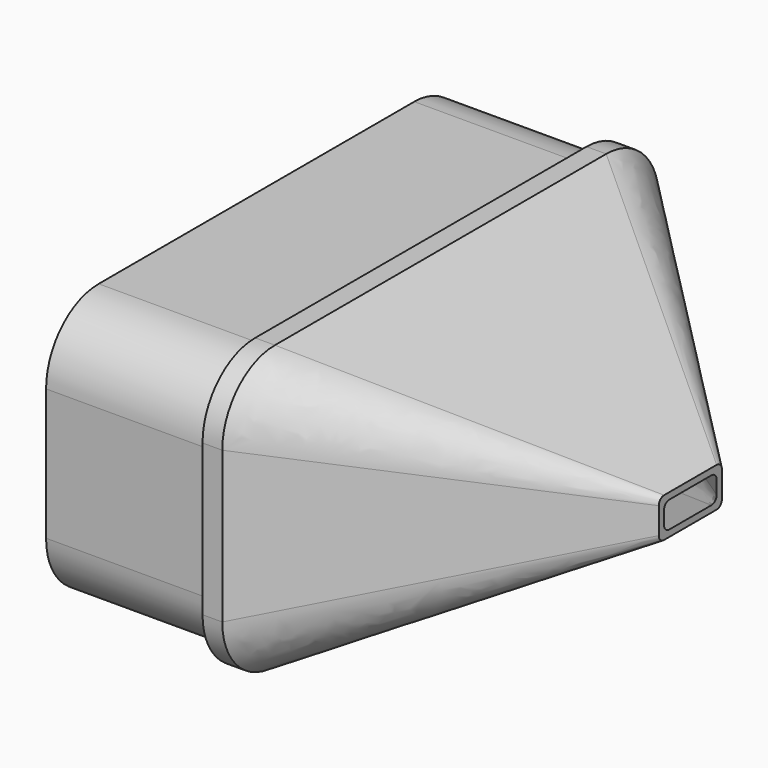
from build123d import *

# Parameters (mm, degrees)
F1_DEPTH = 25
F4_DEPTH = 3
F6_DEPTH = 1


with BuildPart() as f1:
    # F0 (on Right) → F1 (new body)
    with BuildSketch(Plane.YZ):
        with BuildLine():
            Line((30, 20), (-30, 20))
            ThreePointArc((-30, 20), (-37.071068, 17.071068), (-40, 10))
            Line((-40, 10), (-40, -10))
            ThreePointArc((-40, -10), (-37.071068, -17.071068), (-30, -20))
            Line((-30, -20), (30, -20))
            ThreePointArc((30, -20), (37.071068, -17.071068), (40, -10))
            Line((40, -10), (40, 10))
            ThreePointArc((40, 10), (37.071068, 17.071068), (30, 20))
        make_face()
        with BuildLine():
            ThreePointArc((30, 18.5), (36.010408, 16.010408), (38.5, 10))
            Line((38.5, 10), (38.5, -10))
            ThreePointArc((38.5, -10), (36.010408, -16.010408), (30, -18.5))
            Line((30, -18.5), (-30, -18.5))
            ThreePointArc((-30, -18.5), (-36.010408, -16.010408), (-38.5, -10))
            Line((-38.5, -10), (-38.5, 10))
            ThreePointArc((-38.5, 10), (-36.010408, 16.010408), (-30, 18.5))
            Line((-30, 18.5), (30, 18.5))
        make_face(mode=Mode.SUBTRACT)
    extrude(amount=-F1_DEPTH)

    # F3 (on Right) → F4 (join)
    with BuildSketch(Plane.YZ):
        with BuildLine():
            ThreePointArc((-41.5, -11.5), (-38.571068, -18.571068), (-31.5, -21.5))
            Line((-31.5, -21.5), (31.5, -21.5))
            ThreePointArc((31.5, -21.5), (38.571068, -18.571068), (41.5, -11.5))
            Line((41.5, -11.5), (41.5, 11.5))
            ThreePointArc((41.5, 11.5), (38.571068, 18.571068), (31.5, 21.5))
            Line((31.5, 21.5), (-31.5, 21.5))
            ThreePointArc((-31.5, 21.5), (-38.571068, 18.571068), (-41.5, 11.5))
            Line((-41.5, 11.5), (-41.5, -11.5))
        make_face()
    extrude(amount=F4_DEPTH)


with BuildPart() as f6:
    # F5 (on offset) → F6 (new body)
    with BuildSketch(Plane.YZ.offset(40)):
        with BuildLine():
            Line((-5, -3), (5, -3))
            ThreePointArc((5, -3), (5.707107, -2.707107), (6, -2))
            Line((6, -2), (6, 2))
            ThreePointArc((6, 2), (5.707107, 2.707107), (5, 3))
            Line((5, 3), (-5, 3))
            ThreePointArc((-5, 3), (-5.707107, 2.707107), (-6, 2))
            Line((-6, 2), (-6, -2))
            ThreePointArc((-6, -2), (-5.707107, -2.707107), (-5, -3))
        make_face()
    extrude(amount=F6_DEPTH)


with BuildPart() as f7:
    # F4_face (on face) → F7 section 0
    with BuildSketch(Plane.YZ.offset(3)):
        with BuildLine():
            ThreePointArc((-41.5, -11.5), (-38.571068, -18.571068), (-31.5, -21.5))
            Line((-31.5, -21.5), (31.5, -21.5))
            ThreePointArc((31.5, -21.5), (38.571068, -18.571068), (41.5, -11.5))
            Line((41.5, -11.5), (41.5, 11.5))
            ThreePointArc((41.5, 11.5), (38.571068, 18.571068), (31.5, 21.5))
            Line((31.5, 21.5), (-31.5, 21.5))
            ThreePointArc((-31.5, 21.5), (-38.571068, 18.571068), (-41.5, 11.5))
            Line((-41.5, 11.5), (-41.5, -11.5))
        make_face()
    # F6_face (on face) → F7 section 1
    with BuildSketch(Plane.YZ.offset(41)):
        with BuildLine():
            Line((-5, -3), (5, -3))
            ThreePointArc((5, -3), (5.707107, -2.707107), (6, -2))
            Line((6, -2), (6, 2))
            ThreePointArc((6, 2), (5.707107, 2.707107), (5, 3))
            Line((5, 3), (-5, 3))
            ThreePointArc((-5, 3), (-5.707107, 2.707107), (-6, 2))
            Line((-6, 2), (-6, -2))
            ThreePointArc((-6, -2), (-5.707107, -2.707107), (-5, -3))
        make_face()
    loft()


with BuildPart() as f10_tool:
    # F8 (on face) → F10 section 0
    with BuildSketch(Plane.YZ.offset(41)):
        with BuildLine():
            Line((-4, -2), (4, -2))
            ThreePointArc((4, -2), (4.707107, -1.707107), (5, -1))
            Line((5, -1), (5, 1))
            ThreePointArc((5, 1), (4.707107, 1.707107), (4, 2))
            Line((4, 2), (-4, 2))
            ThreePointArc((-4, 2), (-4.707107, 1.707107), (-5, 1))
            Line((-5, 1), (-5, -1))
            ThreePointArc((-5, -1), (-4.707107, -1.707107), (-4, -2))
        make_face()
    # F9 (on Right) → F10 section 1
    with BuildSketch(Plane.YZ):
        with BuildLine():
            ThreePointArc((-38.5, -9.5), (-35.863961, -15.863961), (-29.5, -18.5))
            Line((-29.5, -18.5), (29.5, -18.5))
            ThreePointArc((29.5, -18.5), (35.863961, -15.863961), (38.5, -9.5))
            Line((38.5, -9.5), (38.5, 9.5))
            ThreePointArc((38.5, 9.5), (35.863961, 15.863961), (29.5, 18.5))
            Line((29.5, 18.5), (-29.5, 18.5))
            ThreePointArc((-29.5, 18.5), (-35.863961, 15.863961), (-38.5, 9.5))
            Line((-38.5, 9.5), (-38.5, -9.5))
        make_face()
    loft()


with BuildPart() as f1_1:
    add(f1.part)

    # F10: cut by f10_tool
    add(f10_tool.part, mode=Mode.SUBTRACT)


with BuildPart() as f6_1:
    add(f6.part)

    # F10: cut by f10_tool
    add(f10_tool.part, mode=Mode.SUBTRACT)


with BuildPart() as f7_1:
    add(f7.part)

    # F10: cut by f10_tool
    add(f10_tool.part, mode=Mode.SUBTRACT)


solid = Compound([f1_1.part, f6_1.part, f7_1.part])
